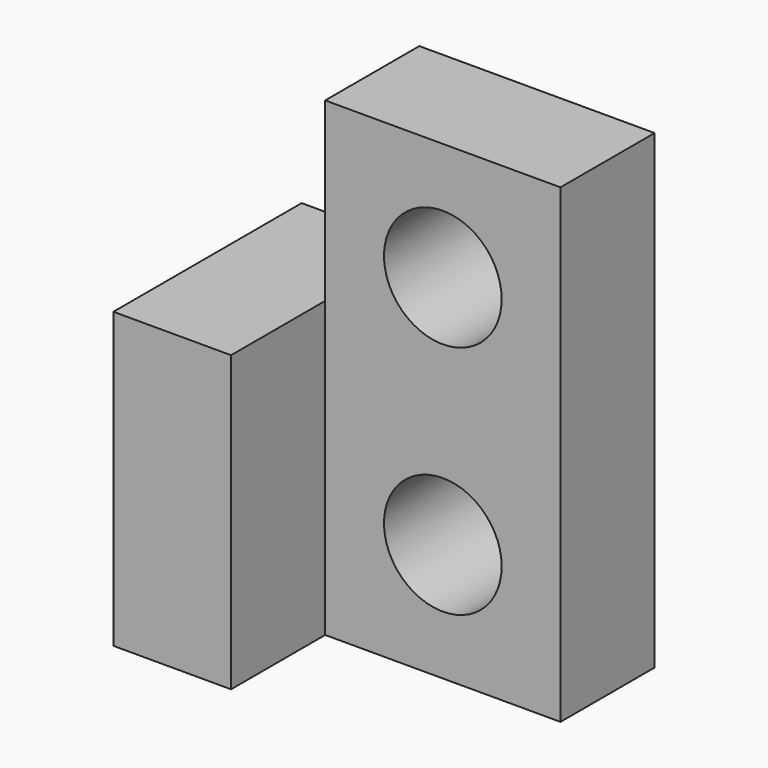
from build123d import *

# Parameters (mm, degrees)
F0_R      = 5
F1_DEPTH  = 15
F0_W      = 10
F0_H      = 25
F1_FACE_W = 20
F1_FACE_H = 40
F1_FACE_R = 5
F2_DEPTH  = 20
F3_DEPTH  = 25


with BuildPart() as f1:
    # F0 (on Front) → F1 (new body)
    with BuildSketch(Plane.XZ):
        Polygon((10, -20), (10, 20), (-10, 20), (-10, 5), (-10, -20), align=None)
        with Locations((0, -10)):
            Circle(F0_R, mode=Mode.SUBTRACT)
        with Locations((0, 10)):
            Circle(F0_R, mode=Mode.SUBTRACT)
    extrude(amount=F1_DEPTH)

    # F0 (on Front) + F1_face (on face) → F2 (join)
    with BuildSketch(Plane.XZ):
        Polygon((10, -20), (10, 20), (-10, 20), (-10, 5), (-10, -20), align=None)
        with Locations((0, -10)):
            Circle(F0_R, mode=Mode.SUBTRACT)
        with Locations((0, 10)):
            Circle(F0_R, mode=Mode.SUBTRACT)
        with Locations((-15, -7.5)):
            Rectangle(F0_W, F0_H)
    with BuildSketch(Plane.XZ.offset(15)):
        Rectangle(F1_FACE_W, F1_FACE_H)
        with Locations((0, -10)):
            Circle(F1_FACE_R, mode=Mode.SUBTRACT)
        with Locations((0, 10)):
            Circle(F1_FACE_R, mode=Mode.SUBTRACT)
    extrude(amount=F2_DEPTH)

    # F3 (cut): a face of the model
    f3_faces = [f1.faces().sort_by_distance(p)[0] for p in [
        (0, -35, 0),
    ]]
    extrude(f3_faces, amount=-F3_DEPTH, mode=Mode.SUBTRACT)


solid = f1.part
